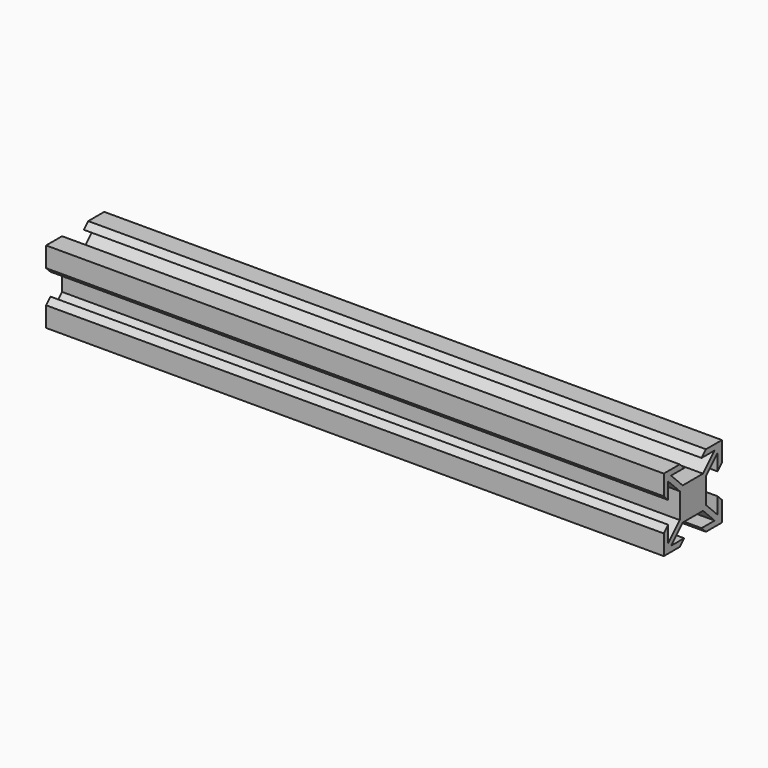
from build123d import *

# Parameters (mm, degrees)
F0_W     = 170
F0_H     = 20
F1_DEPTH = 10
F3_DEPTH = 170.001


with BuildPart() as f1:
    # F0 (on Top) → F1 (new body, symmetric)
    with BuildSketch(Plane.XY):
        Rectangle(F0_W, F0_H)
    extrude(amount=F1_DEPTH, both=True)

    # F2 (on face) → F3 (cut, through all)
    with BuildSketch(Plane.YZ.offset(85)):
        Polygon((-8.5, 3), (-10, 4.5), (-10, -4.5), (-8.5, -3), (-8.5, -7.5), (-4.5, -3.5), (-4.5, 0), (-4.5, 3.5), (-8.5, 7.5), align=None)
        Polygon((4.5, 10), (-4.5, 10), (-3, 8.5), (-7.5, 8.5), (-3.5, 4.5), (0, 4.5), (3.5, 4.5), (7.5, 8.5), (3, 8.5), align=None)
        Polygon((10, -4.5), (10, 4.5), (8.5, 3), (8.5, 7.5), (4.5, 3.5), (4.5, 0), (4.5, -3.5), (8.5, -7.5), (8.5, -3), align=None)
        Polygon((-3, -8.5), (-4.5, -10), (4.5, -10), (3, -8.5), (7.5, -8.5), (3.5, -4.5), (0, -4.5), (-3.5, -4.5), (-7.5, -8.5), align=None)
    extrude(amount=-F3_DEPTH, mode=Mode.SUBTRACT)


solid = f1.part
